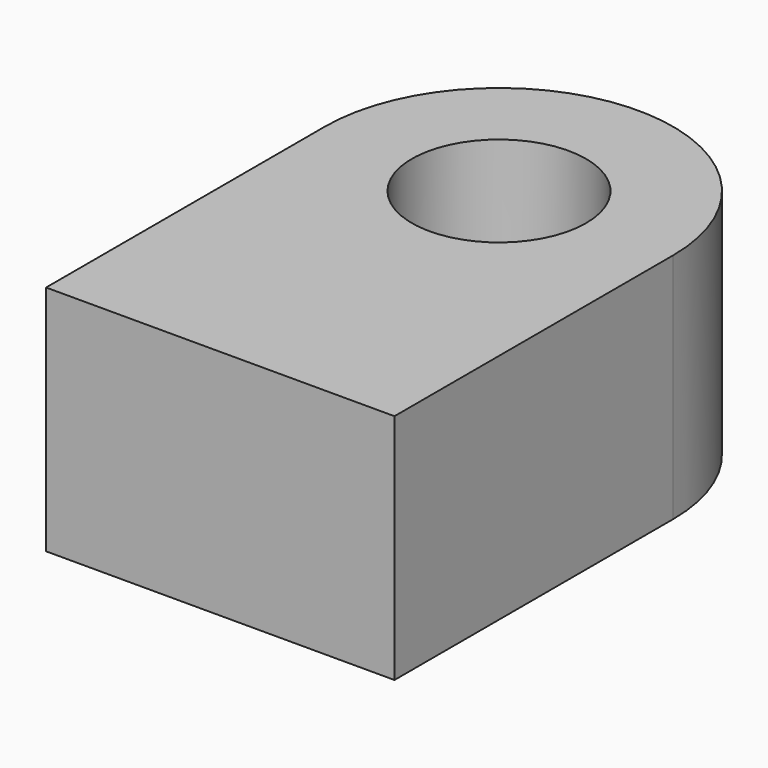
from build123d import *

# Parameters (mm, degrees)
F0_R     = 0.75
F1_DEPTH = 2


with BuildPart() as f1:
    # F0 (on Top) → F1 (new body)
    with BuildSketch(Plane.XY):
        with BuildLine():
            Line((0, 3), (0, 0))
            Line((0, 0), (3, 0))
            Line((3, 0), (3, 3))
            ThreePointArc((3, 3), (1.5, 4.5), (0, 3))
        make_face()
        with Locations((1.5, 3)):
            Circle(F0_R, mode=Mode.SUBTRACT)
    extrude(amount=F1_DEPTH)


solid = f1.part
